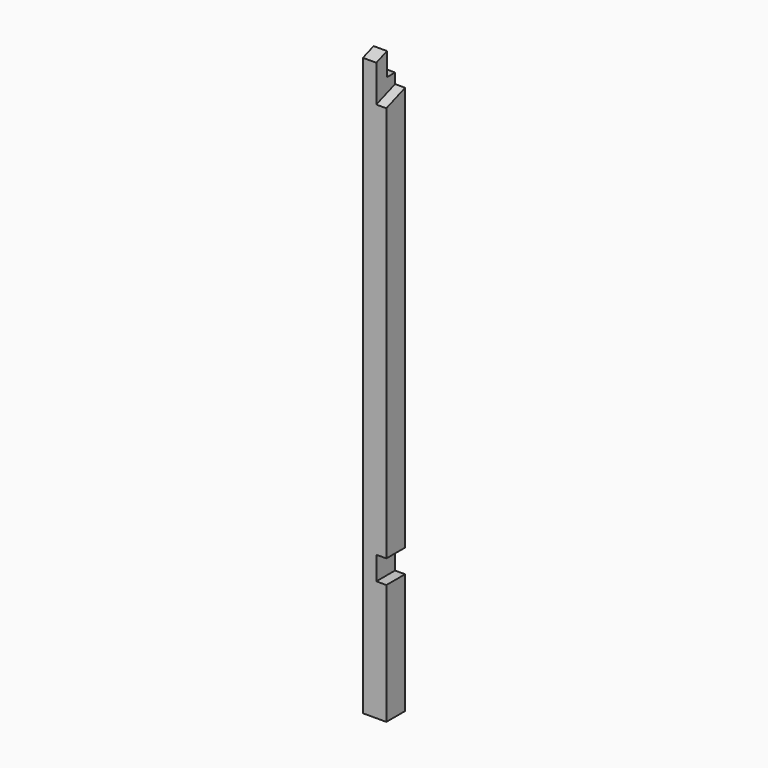
from build123d import *

# Parameters (mm, degrees)
BOX006_W        = 88.9
BOX006_H        = 88.9
BOX006_DEPTH    = 2438.4
SKETCH003_W     = 38.1
SKETCH003_H     = 88.9
POCKET003_DEPTH = 88.9010000032
POCKET008_DEPTH = 88.901
POCKET011_DEPTH = 38.1
SKETCH019_W     = 38.1
SKETCH019_H     = 101.6
POCKET016_DEPTH = 88.901


with BuildPart() as part:
    # Box006 → Box006 (new body)
    with BuildSketch(Plane(origin=(1435.1, 1435.1, 0), x_dir=(1, 0, 0), z_dir=(0, 0, 1))):
        with Locations((44.45, 44.45)):
            Rectangle(BOX006_W, BOX006_H)
    extrude(amount=BOX006_DEPTH)

    # Sketch003 → Pocket003 (cut, through all)
    with BuildSketch(Plane(origin=(1435.1, 1435.1, 0), x_dir=(1, 0, 0), z_dir=(0, -1, 0))):
        with Locations((69.85, 501.65)):
            Rectangle(SKETCH003_W, SKETCH003_H)
    extrude(amount=-POCKET003_DEPTH, mode=Mode.SUBTRACT)

    # Sketch009 → Pocket008 (cut, through all)
    with BuildSketch(Plane(origin=(1524, 1435.1, 0), x_dir=(0, 1, 0), z_dir=(1, 0, 0))):
        Polygon((88.9, 2221.9412), (88.9, 2438.4), (0, 2438.4), (0, 2189.5842461737), align=None)
    extrude(amount=-POCKET008_DEPTH, mode=Mode.SUBTRACT)

    # Sketch012 → Pocket011 (cut)
    with BuildSketch(Plane(origin=(1524, 1435.1, 0), x_dir=(0, 1, 0), z_dir=(1, 0, 0))):
        Polygon((0, 2189.5842461737), (0, 2049.8842461737), (88.9, 2082.2412), (88.9, 2221.9412), align=None)
    extrude(amount=-POCKET011_DEPTH, mode=Mode.SUBTRACT)

    # Sketch019 → Pocket016 (cut, through all)
    with BuildSketch(Plane(origin=(1435.1, 1435.1, 0), x_dir=(0, -1, 0), z_dir=(-1, 0, 0))):
        with Locations((-69.85, 2171.7)):
            Rectangle(SKETCH019_W, SKETCH019_H)
    extrude(amount=-POCKET016_DEPTH, mode=Mode.SUBTRACT)


solid = part.part
